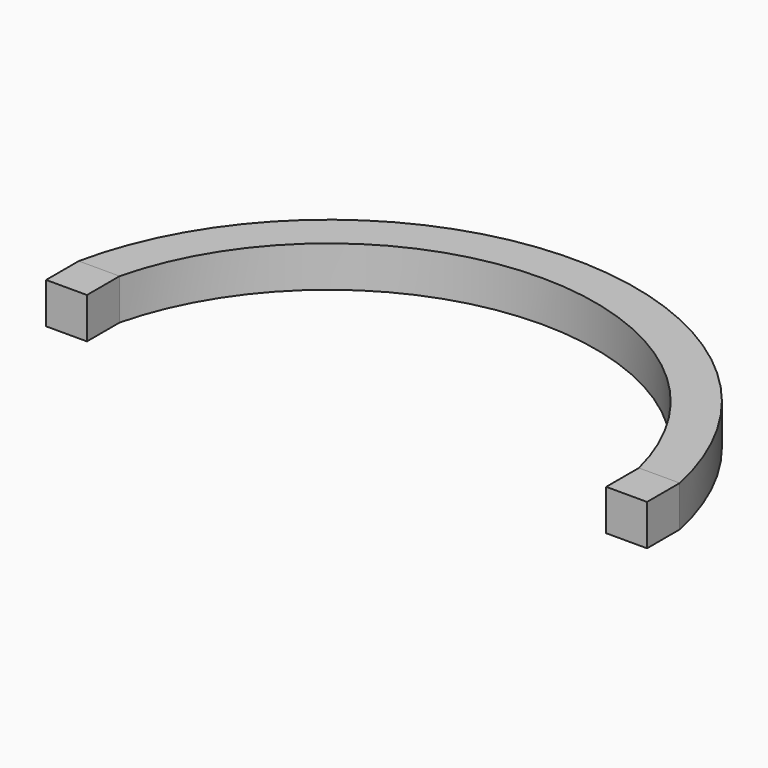
from build123d import *

# Parameters (mm, degrees)
F1_DEPTH = 10.16
F3_DEPTH = 10.16


with BuildPart() as f1:
    # F0 (on Front) → F1 (new body)
    with BuildSketch(Plane.XZ):
        Polygon((-108.194865, -24.872656), (-108.194865, -35.032656), (-98.034865, -35.032656), (-98.034865, -24.872656), (-103.114865, -24.872656), align=None)
        Polygon((31.066807, -24.872535), (31.066807, -35.032535), (41.226807, -35.032535), (41.226807, -24.872535), (36.146807, -24.872535), align=None)
    extrude(amount=-F1_DEPTH)


with BuildPart() as f3:
    # F2 (on face) → F3 (new body)
    with BuildSketch(Plane.XY.offset(-24.872656)):
        with BuildLine():
            Line((-108.194865, 10.16), (-98.034865, 10.16))
            ThreePointArc((-98.034865, 10.16), (-33.484029, 60.813956), (31.066807, 10.16))
            Line((31.066807, 10.16), (41.226807, 10.16))
            ThreePointArc((41.226807, 10.16), (-33.484029, 70.792874), (-108.194865, 10.16))
        make_face()
    extrude(amount=-F3_DEPTH)


solid = Compound([f1.part, f3.part])
